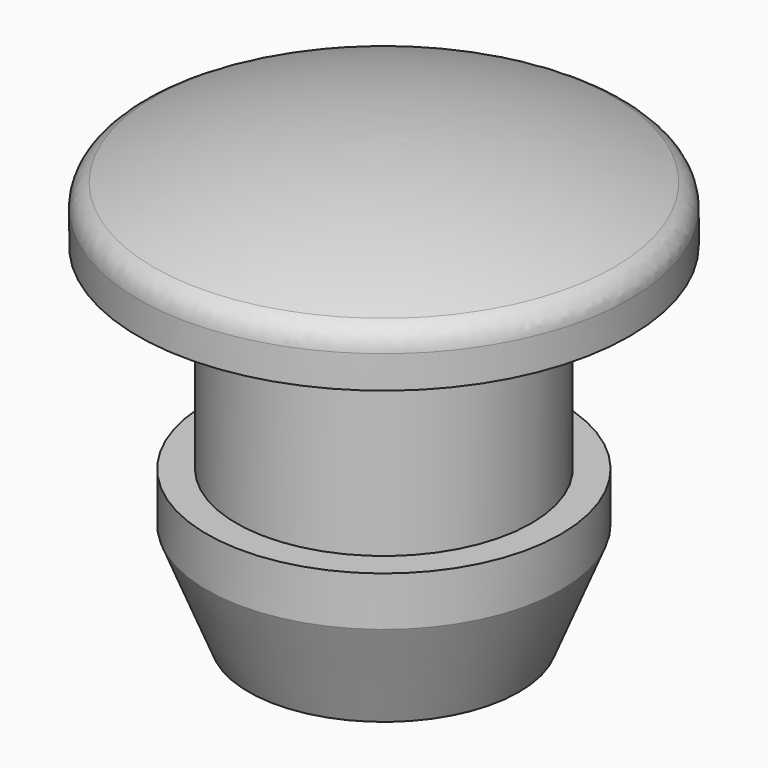
from build123d import *

# Parameters (mm, degrees)
FILLET_R = 0.5


with BuildPart() as part:
    # Sketch → Revolution (revolve)
    with BuildSketch(Plane.XZ):
        with BuildLine():
            Line((0, 0), (0, 2))
            ThreePointArc((5, 1), (2.54951, 1.747549), (0, 2))
            Line((5, 0), (5, 1))
            Line((3, 0), (5, 0))
            Line((3, -4), (3, 0))
            Line((3.6, -4), (3, -4))
            Line((3.6, -5), (3.6, -4))
            Line((2.75, -7.1), (3.6, -5))
            Line((1.75, -7.1), (2.75, -7.1))
            Line((1.75, -7.1), (1.75, 0))
            Line((1.75, 0), (0, 0))
        make_face()
    revolve(axis=Axis((0, 0, 0), (0, 0, 1)))

    # Fillet
    fillet_edges = [part.edges().sort_by_distance(p)[0] for p in [
        (-5, 0, 1),
    ]]
    fillet(fillet_edges, radius=FILLET_R)


solid = part.part
